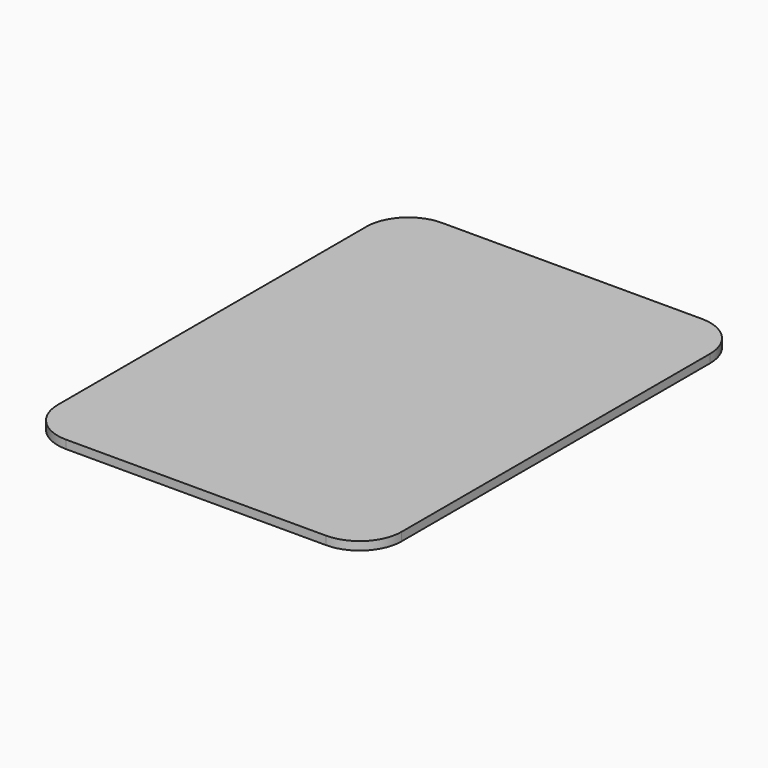
from build123d import *

# Parameters (mm, degrees)
F1_DEPTH = 2
F3_DEPTH = 1


with BuildPart() as f1:
    # F0 (on Top) → F1 (new body)
    with BuildSketch(Plane.XY):
        with BuildLine():
            ThreePointArc((-17.746939, -22.999996), (-17.161152, -24.41421), (-15.746939, -24.999996))
            Line((-15.746939, -24.999996), (15.253061, -24.999996))
            ThreePointArc((15.253061, -24.999996), (16.667275, -24.41421), (17.253061, -22.999996))
            Line((17.253061, -22.999996), (17.253061, 23.000004))
            ThreePointArc((17.253061, 23.000004), (16.667275, 24.414217), (15.253061, 25.000004))
            Line((15.253061, 25.000004), (-15.746939, 25.000004))
            ThreePointArc((-15.746939, 25.000004), (-17.161152, 24.414217), (-17.746939, 23.000004))
            Line((-17.746939, 23.000004), (-17.746939, -22.999996))
        make_face()
    extrude(amount=F1_DEPTH)

    # F2 (on face) → F3 (join)
    with BuildSketch(Plane.XY.offset(2)):
        with BuildLine():
            Line((20.253061, -22.999996), (20.253061, 23.000004))
            ThreePointArc((20.253061, 23.000004), (18.788595, 26.535538), (15.253061, 28.000004))
            Line((15.253061, 28.000004), (-15.746939, 28.000004))
            ThreePointArc((-15.746939, 28.000004), (-19.282472, 26.535538), (-20.746939, 23.000004))
            Line((-20.746939, 23.000004), (-20.746939, -22.999996))
            ThreePointArc((-20.746939, -22.999996), (-19.282472, -26.53553), (-15.746939, -27.999996))
            Line((-15.746939, -27.999996), (15.253061, -27.999996))
            ThreePointArc((15.253061, -27.999996), (18.788595, -26.53553), (20.253061, -22.999996))
        make_face()
    extrude(amount=-F3_DEPTH)


solid = f1.part
